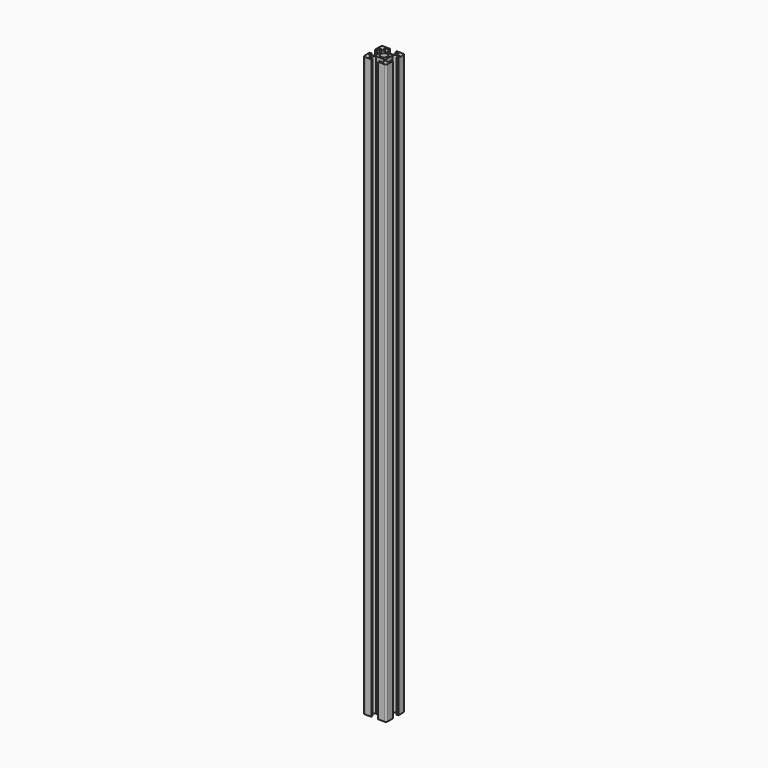
from build123d import *

# Parameters (mm, degrees)
F0_R     = 3
F1_DEPTH = 500


with BuildPart() as f1:
    # F0 (on Top) → F1 (new body)
    with BuildSketch(Plane.XY):
        with BuildLine():
            ThreePointArc((0, 1.5), (0.43934, 0.43934), (1.5, 0))
            Line((1.5, 0), (7, 0))
            Line((7, 0), (7, 1.5))
            Line((7, 1.5), (4, 1.5))
            Line((4, 1.5), (4, 3))
            Line((4, 3), (6.5, 5.5))
            Line((6.5, 5.5), (10, 5.5))
            Line((10, 5.5), (13.5, 5.5))
            Line((13.5, 5.5), (16, 3))
            Line((16, 3), (16, 1.5))
            Line((16, 1.5), (13, 1.5))
            Line((13, 1.5), (13, 0))
            Line((13, 0), (18.5, 0))
            ThreePointArc((18.5, 0), (19.56066, 0.43934), (20, 1.5))
            Line((20, 1.5), (20, 7))
            Line((20, 7), (18.5, 7))
            Line((18.5, 7), (18.5, 4))
            Line((18.5, 4), (17, 4))
            Line((17, 4), (14.5, 6.5))
            Line((14.5, 6.5), (14.5, 10))
            Line((14.5, 10), (14.5, 13.5))
            Line((14.5, 13.5), (17, 16))
            Line((17, 16), (18.5, 16))
            Line((18.5, 16), (18.5, 13))
            Line((18.5, 13), (20, 13))
            Line((20, 13), (20, 18.5))
            ThreePointArc((20, 18.5), (19.56066, 19.56066), (18.5, 20))
            Line((18.5, 20), (13, 20))
            Line((13, 20), (13, 18.5))
            Line((13, 18.5), (16, 18.5))
            Line((16, 18.5), (16, 17))
            Line((16, 17), (13.5, 14.5))
            Line((13.5, 14.5), (10, 14.5))
            Line((10, 14.5), (6.5, 14.5))
            Line((6.5, 14.5), (4, 17))
            Line((4, 17), (4, 18.5))
            Line((4, 18.5), (7, 18.5))
            Line((7, 18.5), (7, 20))
            Line((7, 20), (1.5, 20))
            ThreePointArc((1.5, 20), (0.43934, 19.56066), (0, 18.5))
            Line((0, 18.5), (0, 13))
            Line((0, 13), (1.5, 13))
            Line((1.5, 13), (1.5, 16))
            Line((1.5, 16), (3, 16))
            Line((3, 16), (5.5, 13.5))
            Line((5.5, 13.5), (5.5, 10))
            Line((5.5, 10), (5.5, 6.5))
            Line((5.5, 6.5), (3, 4))
            Line((3, 4), (1.5, 4))
            Line((1.5, 4), (1.5, 7))
            Line((1.5, 7), (0, 7))
            Line((0, 7), (0, 1.5))
        make_face()
        with Locations((10, 10)):
            Circle(F0_R, mode=Mode.SUBTRACT)
    extrude(amount=F1_DEPTH)


solid = f1.part
